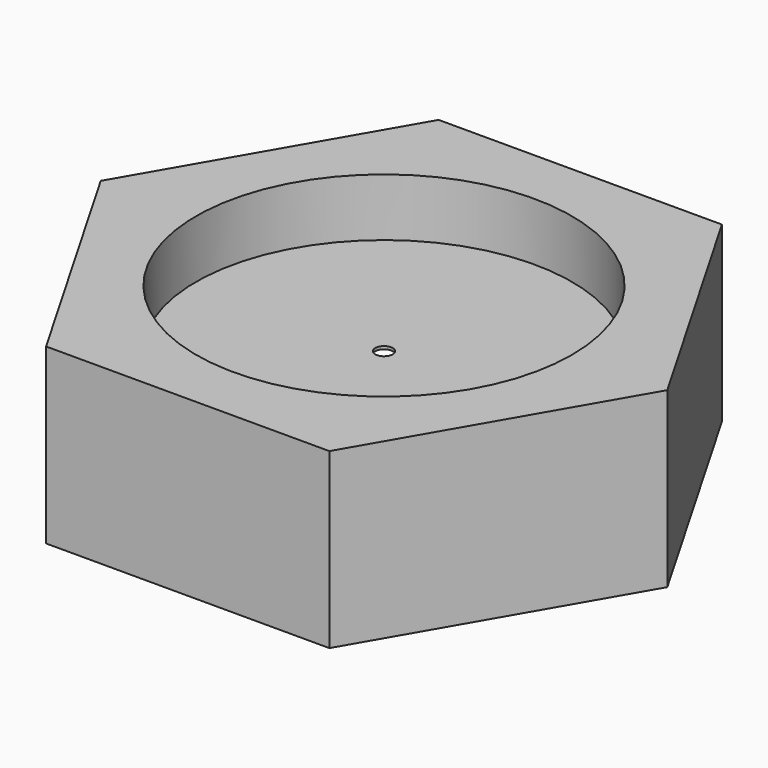
from build123d import *

# Parameters (mm, degrees)
PAD001_DEPTH    = 60
SKETCH003_R     = 65
POCKET001_DEPTH = 20
POCKET003_DEPTH = 39
SKETCH015_R     = 3
POCKET004_DEPTH = 40.001


with BuildPart() as part:
    # Sketch002 → Pad001 (new body)
    with BuildSketch(Plane.XY):
        Polygon((49, 84.87049), (-49, 84.87049), (-98, 0), (-49, -84.87049), (49, -84.87049), (98, 0), align=None)
    extrude(amount=PAD001_DEPTH)

    # Sketch003 (on Face8 of Pad001) → Pocket001 (cut)
    with BuildSketch(Plane.XY.offset(60)):
        Circle(SKETCH003_R)
    extrude(amount=-POCKET001_DEPTH, mode=Mode.SUBTRACT)

    # Sketch014 (on Face4 of Pocket001) → Pocket003 (cut)
    with BuildSketch(Plane(origin=(0, 0, 0), x_dir=(1, 0, 0), z_dir=(0, 0, -1))):
        Polygon((44.381198, 76.87049), (-44.381198, 76.87049), (-88.762396, 0), (-44.381198, -76.87049), (44.381198, -76.87049), (88.762396, 0), align=None)
    extrude(amount=-POCKET003_DEPTH, mode=Mode.SUBTRACT)

    # Sketch015 (on Face17 of Pocket003) → Pocket004 (cut, through all)
    with BuildSketch(Plane.XY.offset(40)):
        Circle(SKETCH015_R)
    extrude(amount=-POCKET004_DEPTH, mode=Mode.SUBTRACT)


solid = part.part
